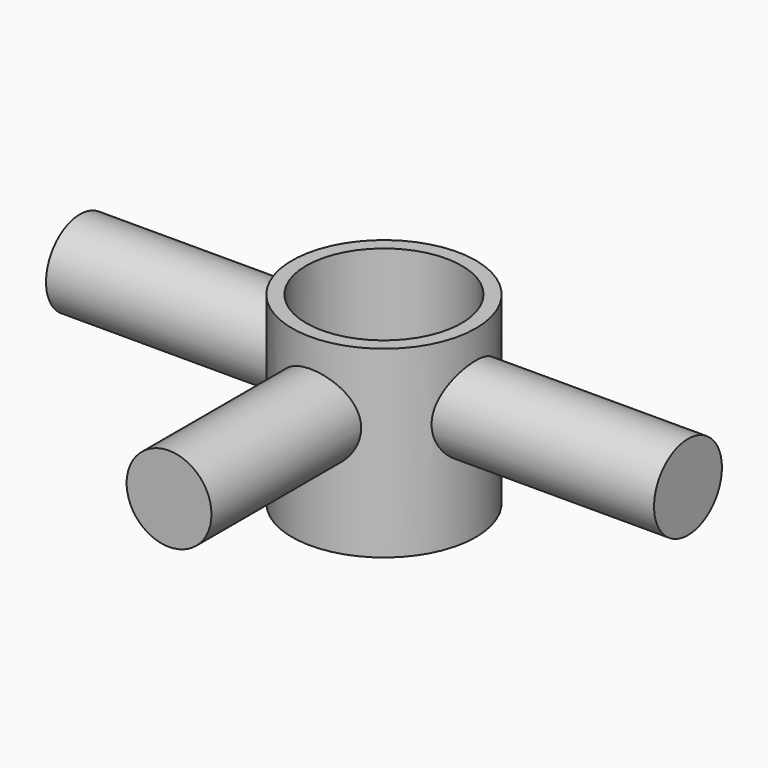
from build123d import *

# Parameters (mm, degrees)
F0_R     = 6.5
F1_DEPTH = 13
F2_R     = 3
F3_DEPTH = 21.5
F4_R     = 3
F5_DEPTH = 19
F7_D     = 11


with BuildPart() as f1:
    # F0 (on Top) → F1 (new body)
    with BuildSketch(Plane.XY):
        Circle(F0_R)
    extrude(amount=F1_DEPTH)

    # F2 (on Right) → F3 (join, symmetric)
    with BuildSketch(Plane.YZ):
        with Locations((0, 8)):
            Circle(F2_R)
    extrude(amount=F3_DEPTH, both=True)

    # F4 (on Front) → F5 (join)
    with BuildSketch(Plane.XZ):
        with Locations((0, 8)):
            Circle(F4_R)
    extrude(amount=F5_DEPTH)

    # F7 (through all)
    with Locations(Plane(origin=(0, 0, 0), x_dir=(1, 0, 0), z_dir=(0, 0, -1))):
        with Locations((0, 0)):
            Hole(F7_D / 2)


solid = f1.part
